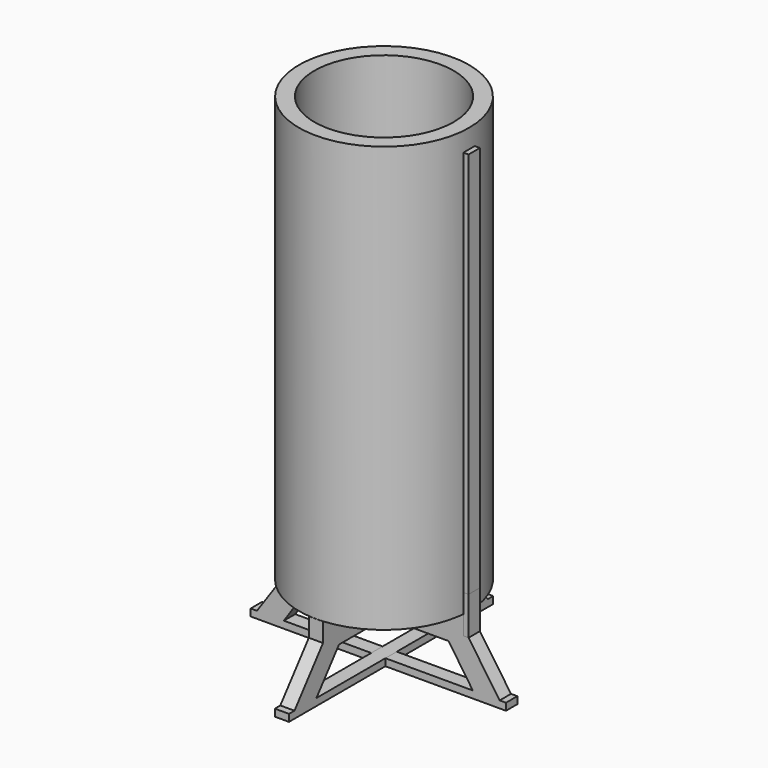
from build123d import *

# Parameters (mm, degrees)
F0_R      = 76.2
F0_R_2    = 62.357
F1_DEPTH  = 381
F2_W      = 38.1
F2_H      = 21.1140662432
F3_DEPTH  = 6.35
F6_DEPTH  = 12.7
F7_COUNT  = 2
F8_W      = 4.6355
F8_H      = 34.2086553574
F9_DEPTH  = 12.7
F10_COUNT = 2
F12_W     = 38.1
F12_H     = 21.1140662432
F13_DEPTH = 6.35
F14_R     = 4.7625
F15_DEPTH = 12.7
F16_R     = 6.6130646677
F16_R_2   = 4.7625
F17_DEPTH = 12.7
F18_R     = 17.8636354215
F19_DEPTH = 38.1
F20_T     = -2.54


with BuildPart() as f1:
    # F0 (on Top) → F1 (new body)
    with BuildSketch(Plane.XY):
        Circle(F0_R)
        Circle(F0_R_2, mode=Mode.SUBTRACT)
    extrude(amount=F1_DEPTH)


with BuildPart() as f3:
    # F2 (on Front) → F3 (new body, symmetric)
    with BuildSketch(Plane.XZ):
        Polygon((12.7, 0), (0, 0), (0, -25.4), (62.968224287, -25.4), (84.6116915345, -57.3190115392), (108.6626440837, -57.3190115392), (80.8355, -16.9544313103), (76.2, -16.9544313103), (76.2, 0), (50.8, 0), align=None)
        Polygon((0, -25.4), (0, 0), (-12.7, 0), (-50.8, 0), (-76.2, 0), (-76.2, -16.9544313103), (-80.8355, -16.9544313103), (-108.6626440837, -57.3190115392), (-84.6116915345, -57.3190115392), (-62.968224287, -25.4), align=None)
        with Locations((31.75, 10.5570331216)):
            Rectangle(F2_W, F2_H)
        with Locations((-31.75, 10.5570331216)):
            Rectangle(F2_W, F2_H)
        Polygon((108.6626440837, -57.3190115392), (84.6116915345, -57.3190115392), (0, -57.3190115392), (0, -63.6690115392), (114.3, -63.6690115392), (114.3, -57.3190115392), align=None)
        Polygon((0, -57.3190115392), (-84.6116915345, -57.3190115392), (-108.6626440837, -57.3190115392), (-114.3, -57.3190115392), (-114.3, -63.6690115392), (0, -63.6690115392), align=None)
    extrude(amount=F3_DEPTH, both=True)


with BuildPart() as f4_1:
    # F4: copy of F3
    add(f3.part)


with BuildPart() as f6:
    # F5 (on face) → F6 (new body)
    with BuildSketch(Plane.XZ.offset(6.35)):
        Polygon((76.2, 0), (76.2, -16.9544313103), (80.8355, -16.9544313103), (80.8355, 364.0455686897), (76.2, 364.0455686897), align=None)
    extrude(amount=-F6_DEPTH)


with BuildPart() as f7_1:
    # F7: instance of F6
    add(f6.part.rotate(Axis((0, 0, -12.7), (0, 0, -1)), 1 * 360 / F7_COUNT))


with BuildPart() as f9:
    # F8 (on face) → F9 (new body)
    with BuildSketch(Plane.XZ.offset(6.35)):
        with Locations((78.51775, 0.1498963684)):
            Rectangle(F8_W, F8_H)
    extrude(amount=-F9_DEPTH)


with BuildPart() as f10_1:
    # F10: instance of F9
    add(f9.part.rotate(Axis((0, 0, -12.7), (0, 0, -1)), 1 * 360 / F10_COUNT))


with BuildPart() as f13:
    # F12 (on offset) → F13 (new body, symmetric)
    with BuildSketch(Plane.YZ):
        Polygon((20.32, 0), (0, 0), (0, -25.4), (58.332724287, -25.4), (83.6019362587, -57.3190115392), (108.1552857299, -57.3190115392), (76.2, -16.9544313103), (76.2, 0), (58.42, 0), align=None)
        Polygon((0, -25.4), (0, 0), (-20.32, 0), (-58.42, 0), (-76.2, 0), (-76.2, -16.9544313103), (-108.1552857299, -57.3190115392), (-83.6019362587, -57.3190115392), (-58.332724287, -25.4), align=None)
        with Locations((39.37, 10.5570331216)):
            Rectangle(F12_W, F12_H)
        with Locations((-39.37, 10.5570331216)):
            Rectangle(F12_W, F12_H)
        Polygon((108.1552857299, -57.3190115392), (83.6019362587, -57.3190115392), (1.0775900602, -57.3190115392), (-1.0775900602, -57.3190115392), (-83.6019362587, -57.3190115392), (-108.1552857299, -57.3190115392), (-114.3, -57.3190115392), (-114.3, -63.6690115392), (-1.0775900602, -63.6690115392), (1.0775900602, -63.6690115392), (114.3, -63.6690115392), (114.3, -57.3190115392), align=None)
    extrude(amount=F13_DEPTH, both=True)


with BuildPart() as f15:
    # F14 (on Top) → F15 (new body)
    with BuildSketch(Plane.XY):
        Circle(F14_R)
    extrude(amount=F15_DEPTH)


with BuildPart() as f17:
    # F16 (on face) → F17 (new body)
    with BuildSketch(Plane.XY.offset(12.7)):
        Circle(F16_R)
        Circle(F16_R_2, mode=Mode.SUBTRACT)
    extrude(amount=F17_DEPTH)


with BuildPart() as f19:
    # F18 (on face) → F19 (new body)
    with BuildSketch(Plane.XY.offset(25.4)):
        Circle(F18_R)
    extrude(amount=F19_DEPTH)

    # F20
    f20_openings = [f19.faces().sort_by_distance(p)[0] for p in [
        (0, 0, 63.5),
    ]]
    offset(amount=F20_T, openings=f20_openings)


solid = Compound([f1.part, f3.part, f4_1.part, f6.part, f7_1.part, f9.part, f10_1.part, f13.part, f15.part, f17.part, f19.part])
